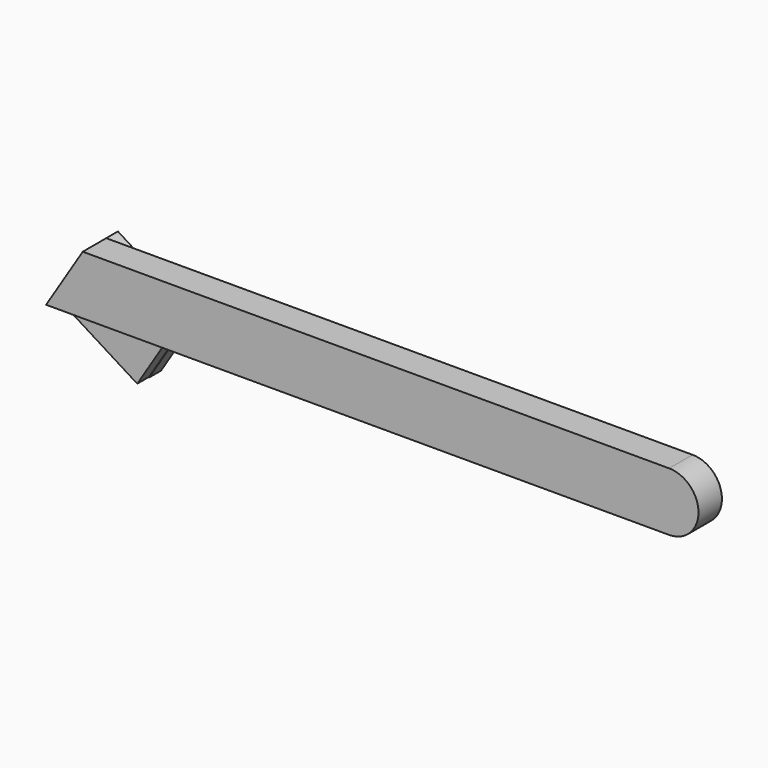
from build123d import *

# Parameters (mm, degrees)
F1_DEPTH = 5.08
F2_DEPTH = 5.08
F4_DEPTH = 5.08
F5_DEPTH = 10.16


with BuildPart() as f1:
    # F0 (on Front) → F1 (new body, symmetric)
    with BuildSketch(Plane.XZ):
        with BuildLine():
            Line((0, -10.16), (0, 10.16))
            ThreePointArc((0, 10.16), (-10.16, 0), (0, -10.16))
        make_face()
        with BuildLine():
            ThreePointArc((0, -10.16), (7.1842048969, -7.1842048969), (10.16, 0))
            ThreePointArc((10.16, 0), (7.1842048969, 7.1842048969), (0, 10.16))
            Line((0, 10.16), (0, -10.16))
        make_face()
    extrude(amount=F1_DEPTH, both=True)

    # F0 (on Front) → F2 (join, symmetric)
    with BuildSketch(Plane.XZ):
        with BuildLine():
            ThreePointArc((0, -10.16), (-10.16, 0), (0, 10.16))
            Line((0, 10.16), (-203.2, 10.16))
            Line((-203.2, 10.16), (-175.6791061841, -7.0468231431))
            Line((-175.6791061841, -7.0468231431), (-177.6255503639, -10.16))
            Line((-177.6255503639, -10.16), (-140.5866057448, -10.16))
            Line((-140.5866057448, -10.16), (0, -10.16))
        make_face()
        Polygon((-203.2, -10.16), (-203.2, 10.16), (-215.9046253878, -10.16), align=None)
        Polygon((-175.6791061841, -7.0468231431), (-203.2, 10.16), (-203.2, -10.16), (-177.6255503639, -10.16), align=None)
    extrude(amount=F2_DEPTH, both=True)


with BuildPart() as f4:
    # F3 (on face) → F4 (new body)
    with BuildSketch(Plane(origin=(0, 5.08, 0), x_dir=(-1, 0, 0), z_dir=(0, 1, 0))):
        Polygon((188.2487500092, -27.4512173453), (215.9046253878, -10.16), (203.2, 10.16), (175.5441246214, -7.1312173453), align=None)
    extrude(amount=F4_DEPTH)


with BuildPart() as f5:
    # F0 (on Front) → F5 (new body)
    with BuildSketch(Plane.XZ):
        Polygon((-203.2, -10.16), (-203.2, 10.16), (-215.9046253878, -10.16), align=None)
        Polygon((-177.6255503639, -10.16), (-203.2, -10.16), (-215.9046253878, -10.16), (-188.3837315719, -27.3668231431), align=None)
        Polygon((-175.6791061841, -7.0468231431), (-203.2, 10.16), (-203.2, -10.16), (-177.6255503639, -10.16), align=None)
    extrude(amount=-F5_DEPTH)


solid = Compound([f1.part, f4.part, f5.part])
